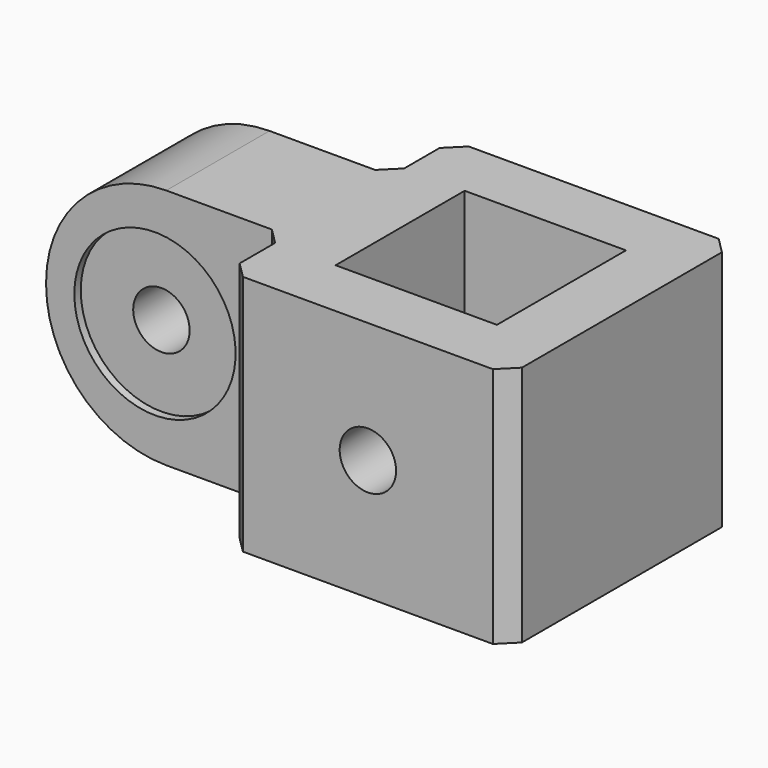
from build123d import *

# Parameters (mm, degrees)
SKETCH_W          = 20
SKETCH_H          = 20
PAD_DEPTH         = 15
SKETCH002_R       = 3.5
POCKET_DEPTH      = 17.501
POCKET_DEPTH_BACK = -17.501
SKETCH001_R       = 10
POCKET001_DEPTH   = 1
SKETCH003_R       = 10
POCKET002_DEPTH   = 1
FILLET_R          = 14.9
CHAMFER_SIZE      = 2


with BuildPart() as part:
    # Sketch → Pad (new body, symmetric)
    with BuildSketch(Plane.XY):
        Polygon((17.5, 17.5), (17.5, -17.5), (-17.5, -17.5), (-17.5, -8), (-47.5, -8), (-47.5, 8), (-17.5, 8), (-17.5, 17.5), align=None)
        Rectangle(SKETCH_W, SKETCH_H, mode=Mode.SUBTRACT)
    extrude(amount=PAD_DEPTH, both=True)

    # Sketch002 → Pocket (cut, two sides)
    with BuildSketch(Plane(origin=(0, 0, 0), x_dir=(-1, 0, 0), z_dir=(0, 1, 0))) as pocket_sk:
        with Locations((34, 0)):
            Circle(SKETCH002_R)
        Circle(SKETCH002_R)
    extrude(amount=-POCKET_DEPTH, mode=Mode.SUBTRACT)
    extrude(pocket_sk.sketch, amount=-POCKET_DEPTH_BACK, mode=Mode.SUBTRACT)

    # Sketch001 (on Face6 of Pad) → Pocket001 (cut)
    with BuildSketch(Plane(origin=(0, 8, 0), x_dir=(-1, 0, 0), z_dir=(0, 1, 0))):
        with Locations((34, 0)):
            Circle(SKETCH001_R)
    extrude(amount=-POCKET001_DEPTH, mode=Mode.SUBTRACT)

    # Sketch003 (on Face4 of Pad) → Pocket002 (cut)
    with BuildSketch(Plane(origin=(0, -8, 0), x_dir=(-1, 0, 0), z_dir=(0, 1, 0))):
        with Locations((34, 0)):
            Circle(SKETCH003_R)
    extrude(amount=POCKET002_DEPTH, mode=Mode.SUBTRACT)

    # Fillet
    fillet_edges = [part.edges().sort_by_distance(p)[0] for p in [
        (-47.5, 0, 15),
        (-47.5, 0, -15),
    ]]
    fillet(fillet_edges, radius=FILLET_R)

    # Chamfer
    chamfer_edges = [part.edges().sort_by_distance(p)[0] for p in [
        (17.5, -17.5, 0),
        (-17.5, -17.5, 0),
        (-17.5, -8, 0),
        (-17.5, 8, 0),
        (17.5, 17.5, 0),
        (-17.5, 17.5, 0),
    ]]
    chamfer(chamfer_edges, length=CHAMFER_SIZE)


solid = part.part
